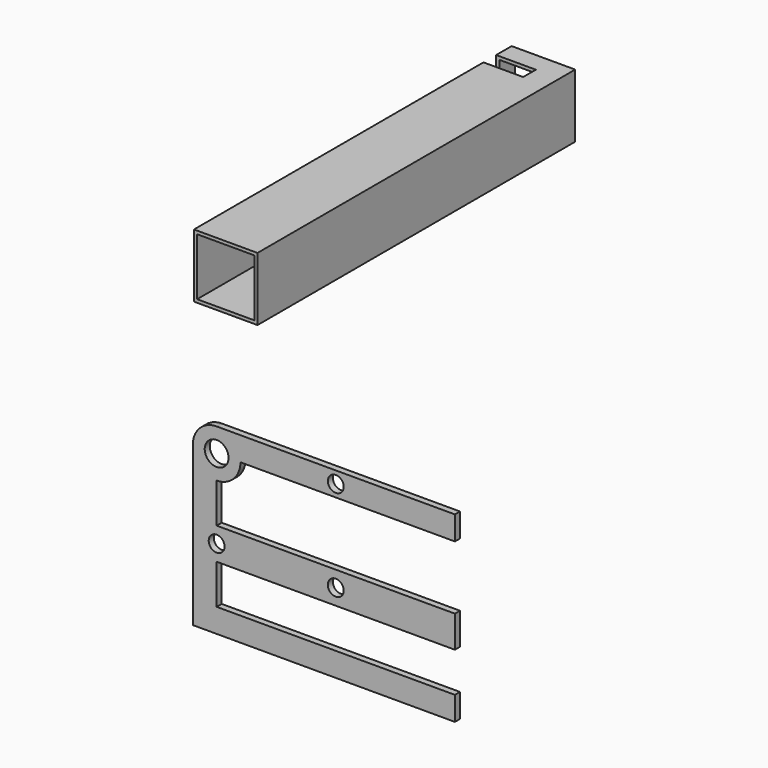
from build123d import *

# Parameters (mm, degrees)
F2_R     = 5
F2_R_2   = 7.5
F3_DEPTH = 2
F4_W     = 40
F4_H     = 40
F4_W_2   = 36
F4_H_2   = 36
F5_DEPTH = 125
F6_W     = 10
F6_H     = 100.0105524436
F7_DEPTH = 25


with BuildPart() as f3:
    # F2 (on offset) → F3 (new body, symmetric)
    with BuildSketch(Plane.XZ.offset(200)):
        with BuildLine():
            Line((-15, 0), (-15, -100))
            Line((-15, -100), (150, -100))
            Line((150, -100), (150, -85))
            Line((150, -85), (0, -85))
            Line((0, -85), (0, -60))
            Line((0, -60), (150, -60))
            Line((150, -60), (150, -40))
            Line((150, -40), (0, -40))
            Line((0, -40), (0, -15))
            ThreePointArc((0, -15), (10.6066017178, -10.6066017178), (15, 0))
            Line((15, 0), (150, 0))
            Line((150, 0), (150, 15))
            Line((150, 15), (0, 15))
            ThreePointArc((0, 15), (-10.6066017178, 10.6066017178), (-15, 0))
        make_face()
        with Locations((0, -50)):
            Circle(F2_R, mode=Mode.SUBTRACT)
        with Locations((75, -50)):
            Circle(F2_R, mode=Mode.SUBTRACT)
        Circle(F2_R_2, mode=Mode.SUBTRACT)
        with Locations((75, 7.5)):
            Circle(F2_R, mode=Mode.SUBTRACT)
    extrude(amount=F3_DEPTH, both=True)


with BuildPart() as f5:
    # F4 (on Front) → F5 (new body, symmetric)
    with BuildSketch(Plane.XZ):
        with Locations((-55.8856502175, 48.1647402048)):
            Rectangle(F4_W, F4_H)
        with Locations((-55.8856502175, 48.1647402048)):
            Rectangle(F4_W_2, F4_H_2, mode=Mode.SUBTRACT)
    extrude(amount=F5_DEPTH, both=True)

    # F6 (on face) → F7 (cut)
    with BuildSketch(Plane(origin=(-75.8856502175, 0, 0), x_dir=(0, -1, 0), z_dir=(-1, 0, 0))):
        with Locations((-107.8009057045, 61.1586305313)):
            Rectangle(F6_W, F6_H)
    extrude(amount=-F7_DEPTH, mode=Mode.SUBTRACT)


solid = Compound([f3.part, f5.part])
